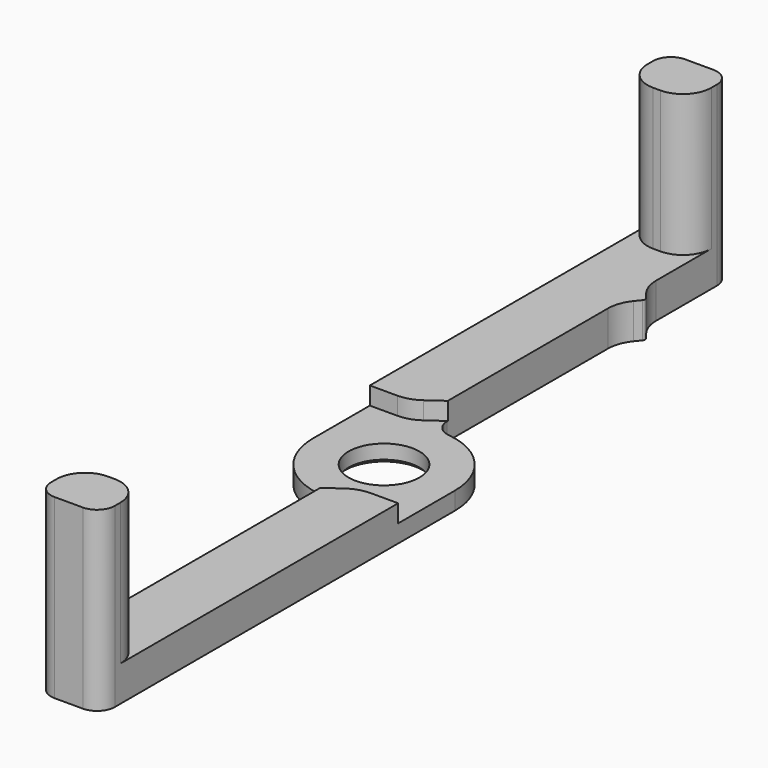
from build123d import *

# Parameters (mm, degrees)
F0_R     = 10
F1_DEPTH = 10
F3_DEPTH = 5
F5_DEPTH = 40
F6_SIZE  = 1
F8_DEPTH = 16


with BuildPart() as f1:
    # F0 (on Top) → F1 (new body)
    with BuildSketch(Plane.XY):
        with BuildLine():
            Line((-20, 120), (-20, 0))
            ThreePointArc((-20, 0), (-14.96663, -13.266499), (-2.4, -19.855478))
            ThreePointArc((-2.4, -19.855478), (0.741657, -21.502723), (2, -24.819347))
            Line((2, -24.819347), (2, -120))
            ThreePointArc((2, -120), (3.464466, -123.535534), (7, -125))
            Line((7, -125), (15, -125))
            ThreePointArc((15, -125), (18.535534, -123.535534), (20, -120))
            Line((20, -120), (20, 0))
            ThreePointArc((20, 0), (14.96663, 13.266499), (2.4, 19.855478))
            ThreePointArc((2.4, 19.855478), (-0.741657, 21.502723), (-2, 24.819347))
            Line((-2, 24.819347), (-2, 81.492189))
            ThreePointArc((-2, 81.492189), (-1.436283, 84.802259), (0.191312, 87.73914))
            Line((0.191312, 87.73914), (1.500244, 89.375305))
            ThreePointArc((1.500244, 89.375305), (1.719375, 90), (1.500244, 90.624695))
            Line((1.500244, 90.624695), (0.191312, 92.26086))
            ThreePointArc((0.191312, 92.26086), (-1.436283, 95.197741), (-2, 98.507811))
            Line((-2, 98.507811), (-2, 120))
            ThreePointArc((-2, 120), (-3.464466, 123.535534), (-7, 125))
            Line((-7, 125), (-15, 125))
            ThreePointArc((-15, 125), (-18.535534, 123.535534), (-20, 120))
        make_face()
        Circle(F0_R, mode=Mode.SUBTRACT)
    extrude(amount=F1_DEPTH)

    # F2 (on face) → F3 (cut)
    with BuildSketch(Plane.XY.offset(10)):
        with BuildLine():
            Line((12.204651, -20), (20, -20))
            Line((20, -20), (20, 25))
            Line((20, 25), (-2, 25))
            Line((-2, 25), (-6.392269, 21.862665))
            ThreePointArc((-6.392269, 21.862665), (-9.152876, 20.477045), (-12.204651, 20))
            Line((-12.204651, 20), (-20, 20))
            Line((-20, 20), (-20, -25))
            Line((-20, -25), (2, -25))
            Line((2, -25), (6.392269, -21.862665))
            ThreePointArc((6.392269, -21.862665), (9.152876, -20.477045), (12.204651, -20))
        make_face()
    extrude(amount=-F3_DEPTH, mode=Mode.SUBTRACT)

    # F4 (on face) → F5 (join)
    with BuildSketch(Plane.XY.offset(10)):
        with BuildLine():
            Line((-7, 125), (-15, 125))
            ThreePointArc((-15, 125), (-18.535534, 123.535534), (-20, 120))
            Line((-20, 120), (-20, 118))
            ThreePointArc((-20, 118), (-17.656854, 112.343146), (-12, 110))
            Line((-12, 110), (-10, 110))
            ThreePointArc((-10, 110), (-4.343146, 112.343146), (-2, 118))
            Line((-2, 118), (-2, 120))
            ThreePointArc((-2, 120), (-3.464466, 123.535534), (-7, 125))
        make_face()
        with BuildLine():
            Line((7, -125), (15, -125))
            ThreePointArc((15, -125), (18.535534, -123.535534), (20, -120))
            Line((20, -120), (20, -118))
            ThreePointArc((20, -118), (17.656854, -112.343146), (12, -110))
            Line((12, -110), (10, -110))
            ThreePointArc((10, -110), (4.343146, -112.343146), (2, -118))
            Line((2, -118), (2, -120))
            ThreePointArc((2, -120), (3.464466, -123.535534), (7, -125))
        make_face()
    extrude(amount=F5_DEPTH)

    # F6
    f6_edges = [f1.edges().sort_by_distance(p)[0] for p in [
        (-10, 0, 0),
    ]]
    chamfer(f6_edges, length=F6_SIZE)

    # F7 (on face) → F8 (cut)
    with BuildSketch(Plane(origin=(0, 0, 0), x_dir=(1, 0, 0), z_dir=(0, 0, -1))):
        with BuildLine():
            Line((13.65, 120.65), (8.35, 120.65))
            ThreePointArc((8.35, 120.65), (6.935786, 120.064214), (6.35, 118.65))
            Line((6.35, 118.65), (6.35, 116.35))
            ThreePointArc((6.35, 116.35), (6.935786, 114.935786), (8.35, 114.35))
            Line((8.35, 114.35), (13.65, 114.35))
            ThreePointArc((13.65, 114.35), (15.064214, 114.935786), (15.65, 116.35))
            Line((15.65, 116.35), (15.65, 118.65))
            ThreePointArc((15.65, 118.65), (15.064214, 120.064214), (13.65, 120.65))
        make_face()
        with BuildLine():
            Line((-8.35, -114.35), (-13.65, -114.35))
            ThreePointArc((-13.65, -114.35), (-15.064214, -114.935786), (-15.65, -116.35))
            Line((-15.65, -116.35), (-15.65, -118.65))
            ThreePointArc((-15.65, -118.65), (-15.064214, -120.064214), (-13.65, -120.65))
            Line((-13.65, -120.65), (-8.35, -120.65))
            ThreePointArc((-8.35, -120.65), (-6.935786, -120.064214), (-6.35, -118.65))
            Line((-6.35, -118.65), (-6.35, -116.35))
            ThreePointArc((-6.35, -116.35), (-6.935786, -114.935786), (-8.35, -114.35))
        make_face()
    extrude(amount=-F8_DEPTH, mode=Mode.SUBTRACT)


solid = f1.part
